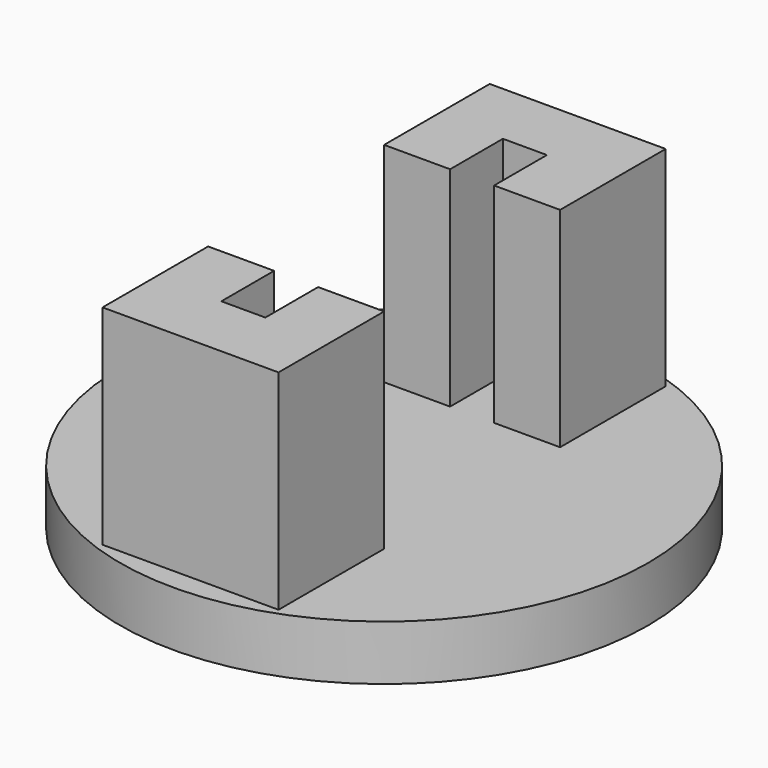
from build123d import *

# Parameters (mm, degrees)
CYLINDER_R     = 12
CYLINDER_DEPTH = 2.5
BOX002_W       = 10
BOX002_H       = 10
BOX002_DEPTH   = 10
BOX001_W       = 2
BOX001_H       = 16
BOX001_DEPTH   = 10
BOX_W          = 8
BOX_H          = 22
BOX_DEPTH      = 10


with BuildPart() as cylinder:
    # Cylinder → Cylinder (new body)
    with BuildSketch(Plane.XY):
        Circle(CYLINDER_R)
    extrude(amount=CYLINDER_DEPTH)


with BuildPart() as cube002:
    # Box002 → Box002 (new body)
    with BuildSketch(Plane(origin=(-5, -5, 2), x_dir=(1, 0, 0), z_dir=(0, 0, 1))):
        with Locations((5, 5)):
            Rectangle(BOX002_W, BOX002_H)
    extrude(amount=BOX002_DEPTH)


with BuildPart() as fusion:
    # Box001 → Box001 (new body)
    with BuildSketch(Plane(origin=(-1, -8, 2), x_dir=(1, 0, 0), z_dir=(0, 0, 1))):
        with Locations((1, 8)):
            Rectangle(BOX001_W, BOX001_H)
    extrude(amount=BOX001_DEPTH)

    # Fusion: union Cube002
    add(cube002.part)


with BuildPart() as fusion001:
    # Box → Box (new body)
    with BuildSketch(Plane(origin=(-4, -11, 2), x_dir=(1, 0, 0), z_dir=(0, 0, 1))):
        with Locations((4, 11)):
            Rectangle(BOX_W, BOX_H)
    extrude(amount=BOX_DEPTH)

    # Cut: cut Fusion
    add(fusion.part, mode=Mode.SUBTRACT)

    # Fusion001: union Cylinder
    add(cylinder.part)


solid = fusion001.part
